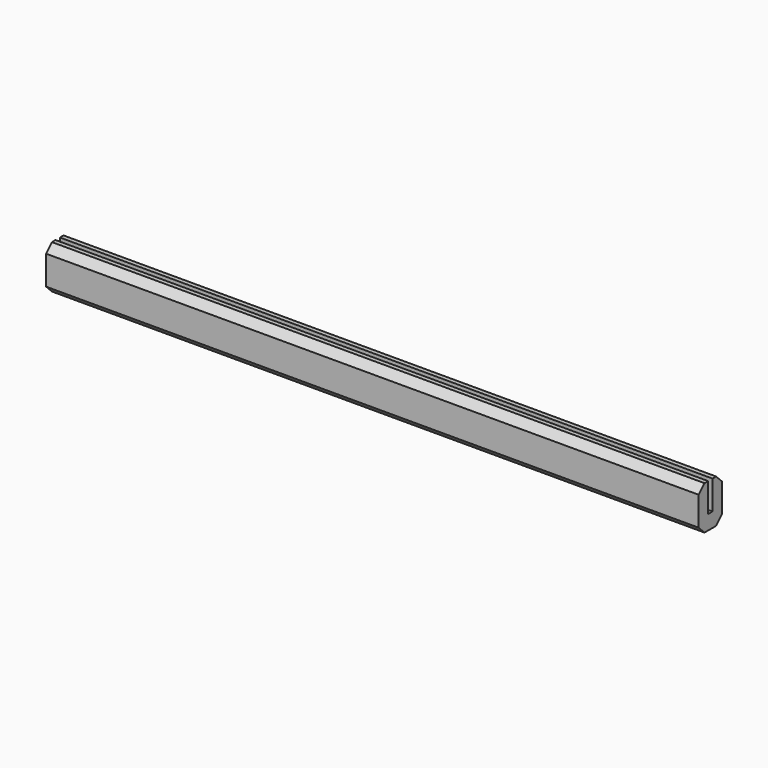
from build123d import *

# Parameters (mm, degrees)
F0_W     = 90
F0_H     = 1.625
F0_H_2   = 0.75
F1_DEPTH = 2
F2_DEPTH = 4
F3_SIZE2 = 1
F3_SIZE  = 1


with BuildPart() as f1:
    # F0 (on Top) → F1 (new body)
    with BuildSketch(Plane.XY):
        with Locations((7.534994, -1.493563)):
            Rectangle(F0_W, F0_H)
        with Locations((7.534994, -0.306063)):
            Rectangle(F0_W, F0_H_2)
        with Locations((7.534994, 0.881437)):
            Rectangle(F0_W, F0_H)
    extrude(amount=-F1_DEPTH)

    # F0 (on Top) → F2 (join)
    with BuildSketch(Plane.XY):
        with Locations((7.534994, 0.881437)):
            Rectangle(F0_W, F0_H)
        with Locations((7.534994, -1.493563)):
            Rectangle(F0_W, F0_H)
    extrude(amount=F2_DEPTH)

    # F3
    f3_edges = [f1.edges().sort_by_distance(p)[0] for p in [
        (7.534994, 1.693937, -2),
        (7.534994, -2.306063, -2),
        (7.534994, 1.693937, 4),
        (7.534994, -2.306063, 4),
    ]]
    chamfer(f3_edges, length=F3_SIZE, length2=F3_SIZE2)


solid = f1.part
